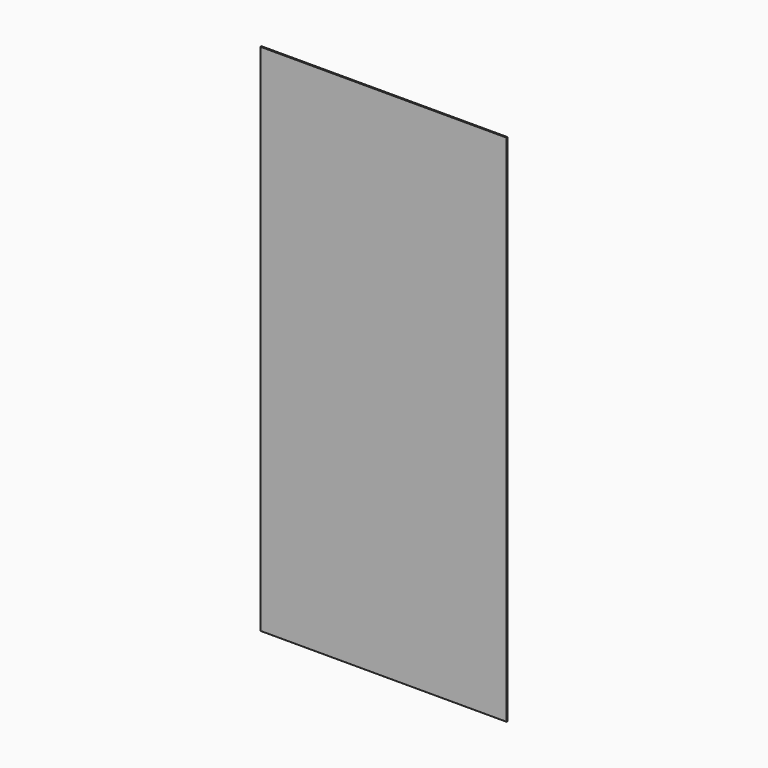
from build123d import *

# Parameters (mm, degrees)
F0_W     = 1004.29
F0_H     = 2096.67
F1_DEPTH = 2.5
F2_SIZE2 = 0.5
F2_SIZE  = 0.5


with BuildPart() as f1:
    # F0 (on Front) → F1 (new body, symmetric)
    with BuildSketch(Plane.XZ):
        with Locations((0, 1048.335)):
            Rectangle(F0_W, F0_H)
    extrude(amount=F1_DEPTH, both=True)

    # F2
    f2_edges = [f1.edges().sort_by_distance(p)[0] for p in [
        (0, -2.5, 0),
        (502.145, -2.5, 1048.335),
        (0, -2.5, 2096.67),
        (-502.145, -2.5, 1048.335),
        (-502.145, 2.5, 1048.335),
        (0, 2.5, 2096.67),
        (502.145, 2.5, 1048.335),
        (0, 2.5, 0),
    ]]
    chamfer(f2_edges, length=F2_SIZE, length2=F2_SIZE2)


solid = f1.part
